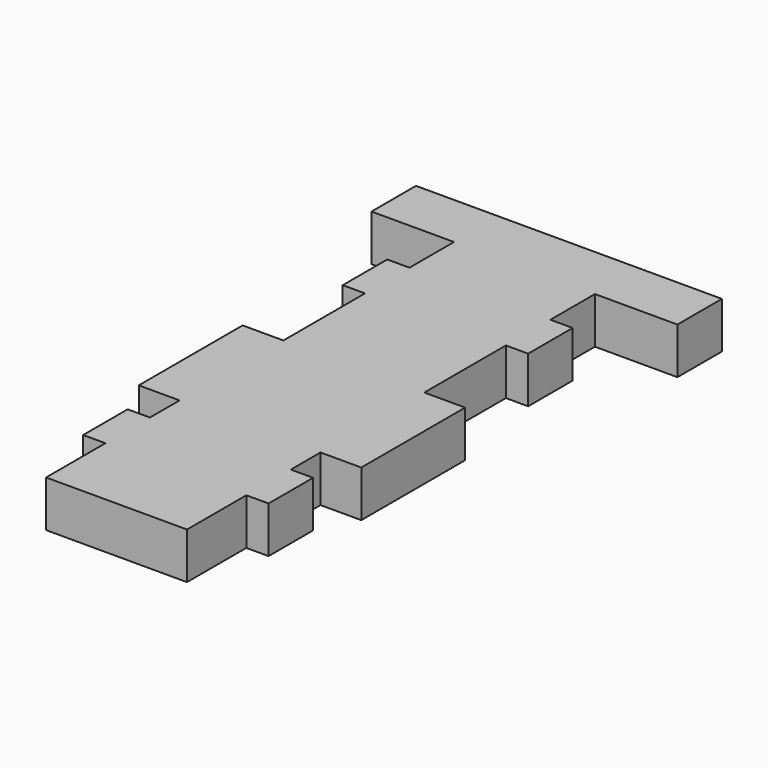
from build123d import *

# Parameters (mm, degrees)
F0_W     = 76
F0_H     = 30
F0_W_2   = 44.5
F0_W_3   = 12
F0_H_2   = 55
F0_H_3   = 70
F0_W_4   = 22
F0_H_4   = 20
F0_H_5   = 40
F1_DEPTH = 25


with BuildPart() as f1:
    # F0 (on Top) → F1 (new body)
    with BuildSketch(Plane.XY):
        with Locations((27.6805464923, 225.3076396883)):
            Rectangle(F0_W, F0_H)
        with Locations((-32.5694535077, 225.3076396883)):
            Rectangle(F0_W_2, F0_H)
        with Locations((87.9305464923, 225.3076396883)):
            Rectangle(F0_W_2, F0_H)
        with Locations((27.6805464923, 195.3076396883)):
            Rectangle(F0_W, F0_H)
        with Locations((27.6805464923, 165.3076396883)):
            Rectangle(F0_W, F0_H)
        with Locations((-16.3194535077, 165.3076396883)):
            Rectangle(F0_W_3, F0_H)
        with Locations((71.6805464923, 165.3076396883)):
            Rectangle(F0_W_3, F0_H)
        with Locations((27.6805464923, 122.8076396883)):
            Rectangle(F0_W, F0_H_2)
        with Locations((27.6805464923, 60.3076396883)):
            Rectangle(F0_W, F0_H_3)
        with Locations((-21.3194535077, 60.3076396883)):
            Rectangle(F0_W_4, F0_H_3)
        with Locations((76.6805464923, 60.3076396883)):
            Rectangle(F0_W_4, F0_H_3)
        with Locations((27.6805464923, 15.3076396883)):
            Rectangle(F0_W, F0_H_4)
        with Locations((27.6805464923, -9.6923603117)):
            Rectangle(F0_W, F0_H)
        with Locations((-16.3194535077, -9.6923603117)):
            Rectangle(F0_W_3, F0_H)
        with Locations((71.6805464923, -9.6923603117)):
            Rectangle(F0_W_3, F0_H)
        with Locations((27.6805464923, -44.6923603117)):
            Rectangle(F0_W, F0_H_5)
    extrude(amount=F1_DEPTH)


solid = f1.part
